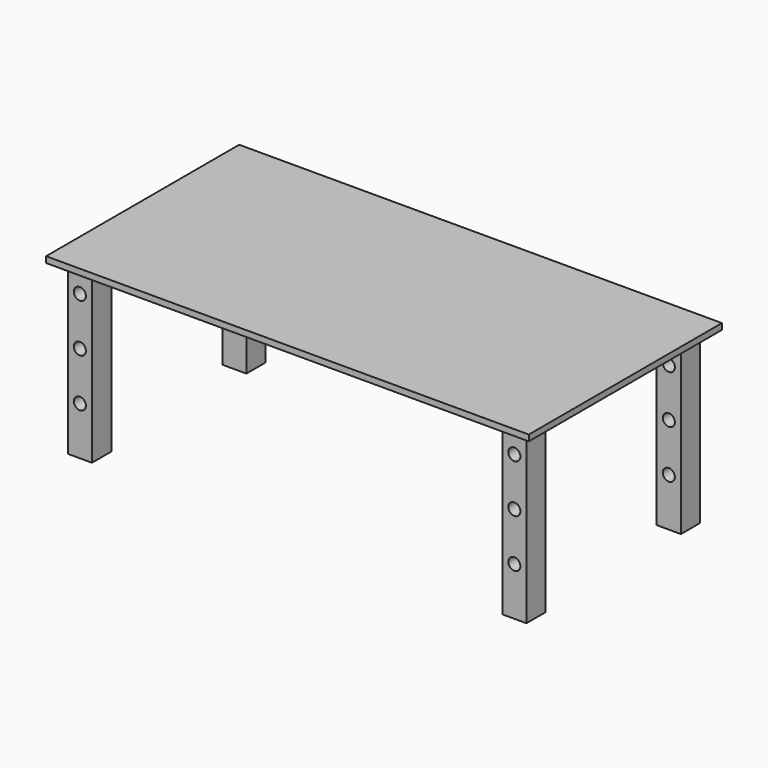
from build123d import *

# Parameters (mm, degrees)
F0_W     = 1000
F0_H     = 500
F0_W_2   = 100
F0_H_2   = 100
F1_DEPTH = 25
F2_DEPTH = 700
F4_D     = 50


with BuildPart() as f1:
    # F0 (on Top) → F1 (new body)
    with BuildSketch(Plane.XY):
        with Locations((-81.7313119769, 10.2016413486)):
            Rectangle(F0_W, F0_H)
        with Locations((-481.7313119769, 160.2016413486)):
            Rectangle(F0_W_2, F0_H_2, mode=Mode.SUBTRACT)
        with Locations((-481.7313119769, 160.2016413486)):
            Rectangle(F0_W_2, F0_H_2)
    extrude(amount=F1_DEPTH)

    # F5: F1, F2 across face


with BuildPart() as f2:
    # F0 (on Top) → F2 (new body)
    with BuildSketch(Plane.XY):
        with Locations((-481.7313119769, 160.2016413486)):
            Rectangle(F0_W_2, F0_H_2)
    extrude(amount=-F2_DEPTH)

    # F4 (through all)
    with Locations(Plane.XZ):
        with Locations((-481.7313119769, -100), (-481.7313119769, -300), (-481.7313119769, -500)):
            Hole(F4_D / 2)


with BuildPart() as f1_1:
    add(f1.part)
    add(f1.part.mirror(Plane(origin=(-81.7313119769, -239.7983586514, 12.5), x_dir=(1, 0, 0), z_dir=(0, -1, 0))))
    add(f2.part.mirror(Plane(origin=(-81.7313119769, -239.7983586514, 12.5), x_dir=(1, 0, 0), z_dir=(0, -1, 0))))

    # F6: F1, F2 across face


with BuildPart() as f1_2:
    add(f1_1.part)
    add(f1_1.part.mirror(Plane(origin=(418.2686880231, -239.7983586514, 12.5), x_dir=(0, 1, 0), z_dir=(1, 0, 0))))
    add(f2.part.mirror(Plane(origin=(418.2686880231, -239.7983586514, 12.5), x_dir=(0, 1, 0), z_dir=(1, 0, 0))))


solid = Compound([f2.part, f1_2.part])
